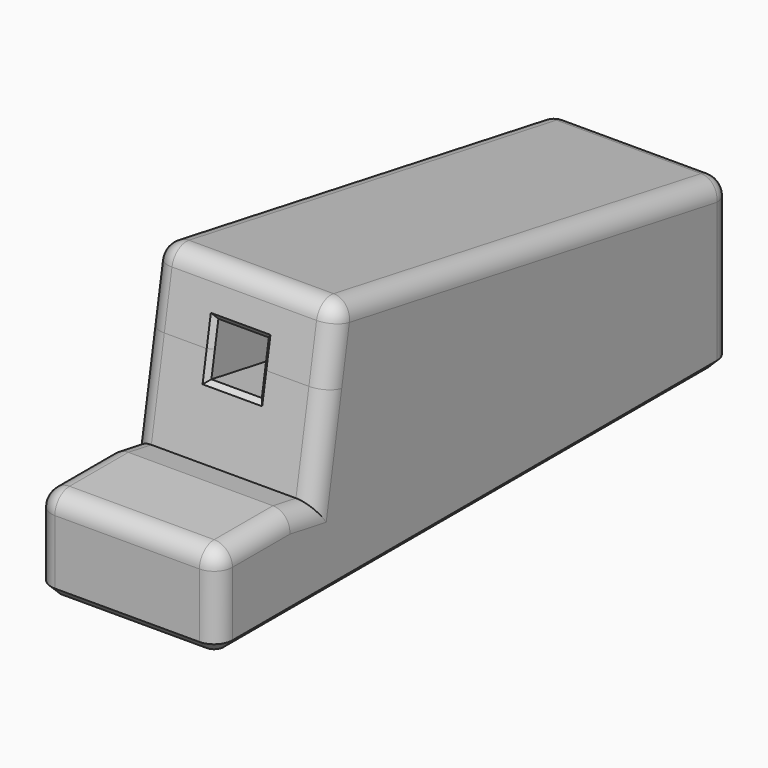
from build123d import *

# Parameters (mm, degrees)
PAD_DEPTH       = 9.88
SKETCH001_W     = 2.75
SKETCH001_H     = 2.75
POCKET_DEPTH    = 20
FILLET_R        = 1
CHAMFER_SIZE    = 0.5
CHAMFER001_SIZE = 0.25


with BuildPart() as foot:
    # Sketch → Pad (new body)
    with BuildSketch(Plane.YZ):
        Polygon((1.57769, 8.947526), (0.883098, 5.008295), (0, 0), (-1.575692, 0.277837), (-6.575692, 0.277837), (-6.575692, -4.722163), (28.424308, -4.722163), (28.424308, 4.213743), align=None)
    extrude(amount=PAD_DEPTH)

    # Sketch001 (on Face9 of Pad) → Pocket (cut)
    with BuildSketch(Plane(origin=(0, 0, 0), x_dir=(0, -0.173648, -0.984808), z_dir=(0, -0.984808, 0.173648))):
        with Locations((-5.087502, 4.946713)):
            Rectangle(SKETCH001_W, SKETCH001_H)
    extrude(amount=-POCKET_DEPTH, mode=Mode.SUBTRACT)

    # Fillet
    fillet_edges = [foot.edges().sort_by_distance(p)[0] for p in [
        (9.88, -4.075692, 0.277837),
        (4.94, -6.575692, 0.277837),
        (0, -4.075692, 0.277837),
        (4.94, 1.57769, 8.947526),
        (0, 15.000999, 6.580635),
        (9.88, 15.000999, 6.580635),
        (9.88, 0.788845, 4.473763),
        (0, 0.788845, 4.473763),
        (4.94, 28.424308, 4.213743),
        (9.88, 28.424308, -0.25421),
        (9.88, -0.787846, 0.138919),
        (0, -0.787846, 0.138919),
        (9.88, -6.575692, -2.222163),
        (0, -6.575692, -2.222163),
        (0, 28.424308, -0.25421),
    ]]
    fillet(fillet_edges, radius=FILLET_R)

    # Chamfer
    chamfer_edges = [foot.edges().sort_by_distance(p)[0] for p in [
        (0, 10.924308, -4.722163),
    ]]
    chamfer(chamfer_edges, length=CHAMFER_SIZE)

    # Chamfer001
    chamfer001_edges = [foot.edges().sort_by_distance(p)[0] for p in [
        (3.571713, 0.883435, 5.010211),
        (4.946713, 1.122202, 6.364322),
        (6.321713, 0.883435, 5.010211),
        (4.946713, 0.644669, 3.656101),
    ]]
    chamfer(chamfer001_edges, length=CHAMFER001_SIZE)


with BuildPart() as foot_1:
    # Body placement: moved
    add(foot.part.moved(Location((-34.3, 0, 0))))


with BuildPart() as foot_mirror:
    # Part__Mirroring: instance of Foot
    add(foot_1.part.mirror(Plane(origin=(0, 0, 0), x_dir=(0, -1, 0), z_dir=(1, 0, 0))))


solid = foot_mirror.part
